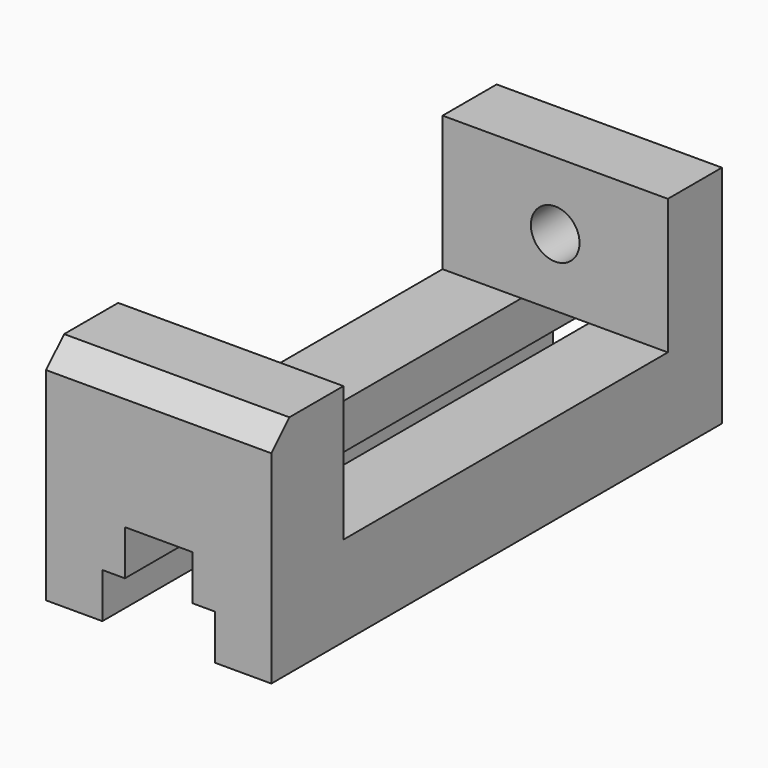
from build123d import *

# Parameters (mm, degrees)
F0_W     = 50
F0_H     = 50
F1_DEPTH = 125
F2_W     = 90
F2_H     = 30
F3_DEPTH = 50
F5_DEPTH = 125
F6_D     = 10.8
F6_DEPTH = 15
F6_TIP   = 3.2446473427
F7_SIZE  = 5


with BuildPart() as f1:
    # F0 (on Front) → F1 (new body)
    with BuildSketch(Plane.XZ):
        Rectangle(F0_W, F0_H)
    extrude(amount=F1_DEPTH)

    # F2 (on face) → F3 (cut)
    with BuildSketch(Plane.YZ.offset(25)):
        with Locations((-60, 10)):
            Rectangle(F2_W, F2_H)
    extrude(amount=-F3_DEPTH, mode=Mode.SUBTRACT)

    # F4 (on face) → F5 (cut)
    with BuildSketch(Plane(origin=(0, 0, 0), x_dir=(-1, 0, 0), z_dir=(0, 1, 0))):
        Polygon((-12.5, -15), (-12.5, -25), (12.5, -25), (12.5, -15), (7.5, -15), (7.5, -5), (-7.5, -5), (-7.5, -15), align=None)
    extrude(amount=-F5_DEPTH, mode=Mode.SUBTRACT)

    # F6
    with Locations(Plane(origin=(0, 0, 0), x_dir=(-1, 0, 0), z_dir=(0, 1, 0))):
        with Locations((0, 10)):
            Hole(F6_D / 2, depth=F6_DEPTH)
            with Locations((0, 0, -(F6_DEPTH + F6_TIP / 2))):  # 118° drill point
                Cone(0, F6_D / 2, F6_TIP, mode=Mode.SUBTRACT)

    # F7
    f7_edges = [f1.edges().sort_by_distance(p)[0] for p in [
        (0, -125, 25),
    ]]
    chamfer(f7_edges, length=F7_SIZE)


solid = f1.part
